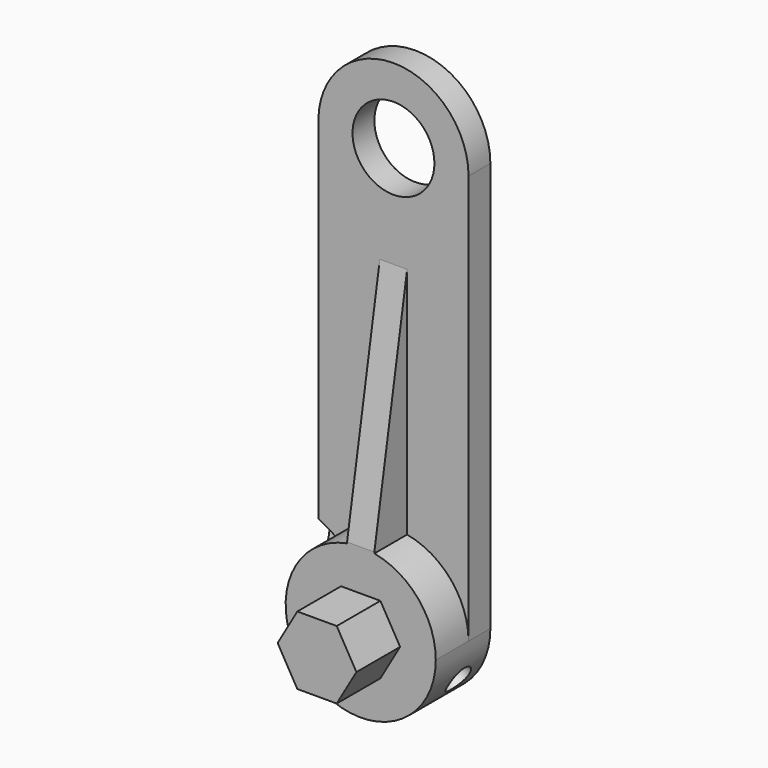
from build123d import *

# Parameters (mm, degrees)
F0_R     = 3
F1_DEPTH = 2
F2_DEPTH = 5
F3_DEPTH = 9
F4_R     = 2.5
F5_DEPTH = 4
F7_DEPTH = 1
F10_D    = 2


with BuildPart() as f1:
    # F0 (on Front) → F1 (new body)
    with BuildSketch(Plane.XZ):
        with BuildLine():
            ThreePointArc((-5.5, 0), (0, 5.5), (5.5, 0))
            Line((5.5, 0), (5.5, 30))
            ThreePointArc((5.5, 30), (0, 35.5), (-5.5, 30))
            Line((-5.5, 30), (-5.5, 0))
        make_face()
        with Locations((0, 30)):
            Circle(F0_R, mode=Mode.SUBTRACT)
    extrude(amount=F1_DEPTH)

    # F0 (on Front) → F2 (join)
    with BuildSketch(Plane.XZ):
        with BuildLine():
            ThreePointArc((-5.5, 0), (0, -5.5), (5.5, 0))
            ThreePointArc((5.5, 0), (0, 5.5), (-5.5, 0))
        make_face()
        Polygon((2.8867513459, 0), (1.443375673, -2.5), (-1.443375673, -2.5), (-2.8867513459, 0), (-1.443375673, 2.5), (1.443375673, 2.5), align=None, mode=Mode.SUBTRACT)
    extrude(amount=F2_DEPTH)

    # F0 (on Front) → F3 (join)
    with BuildSketch(Plane.XZ):
        Polygon((-1.443375673, -2.5), (1.443375673, -2.5), (2.8867513459, 0), (1.443375673, 2.5), (-1.443375673, 2.5), (-2.8867513459, 0), align=None)
    extrude(amount=F3_DEPTH)

    # F4 (on face) → F5 (cut)
    with BuildSketch(Plane.XZ):
        Circle(F4_R)
    extrude(amount=F5_DEPTH, mode=Mode.SUBTRACT)

    # F6 (on Right) → F7 (join, symmetric)
    with BuildSketch(Plane.YZ):
        Polygon((-5, 5.5), (-5, 3.9388309233), (0, 3.9388309233), (0, 23.931786418), (-1.7340160995, 24.0223151183), align=None)
    extrude(amount=F7_DEPTH, both=True)

    # F10 (through all)
    with Locations(Plane(origin=(4.7631397208, 0, -2.75), x_dir=(0, 1, 0), z_dir=(0.8660254038, 0, -0.5))):
        with Locations((-2, 0)):
            Hole(F10_D / 2)


solid = f1.part
